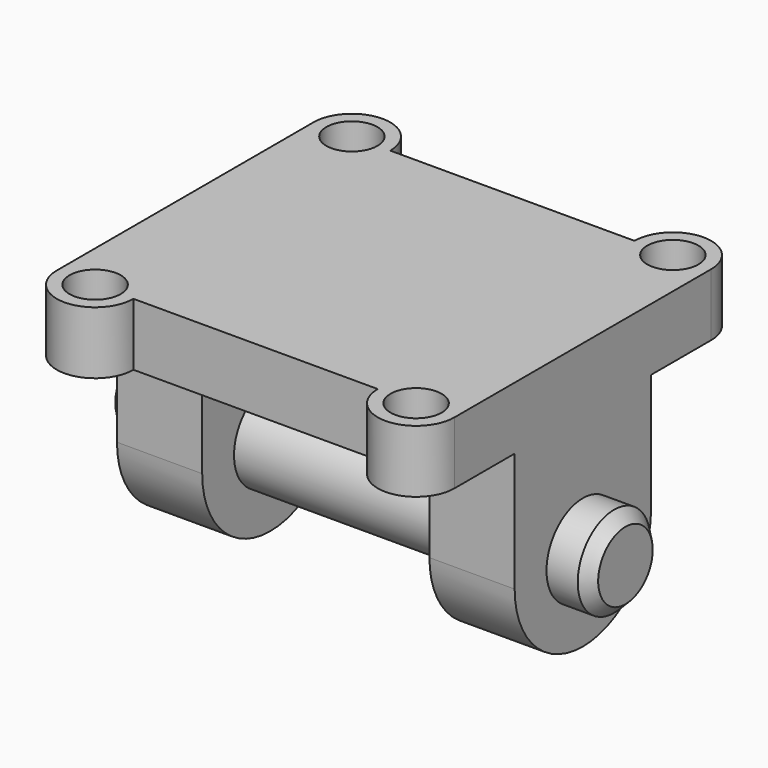
from build123d import *

# Parameters (mm, degrees)
F1_DEPTH  = 11
F2_R      = 4.5
F3_DEPTH  = 11
F5_R      = 8
F6_DEPTH  = 70
F7_W      = 40
F7_H      = 30
F8_DEPTH  = 36.001
F9_R      = 8
F10_DEPTH = 42.5
F11_SIZE  = 2


with BuildPart() as f1:
    # F0 (on Top) → F1 (new body)
    with BuildSketch(Plane.XY):
        with BuildLine():
            Line((21.5, 28.25), (-21.5, 28.25))
            ThreePointArc((-21.5, 28.25), (-28.25, 35), (-35, 28.25))
            Line((-35, 28.25), (-35, -28.25))
            ThreePointArc((-35, -28.25), (-28.25, -35), (-21.5, -28.25))
            Line((-21.5, -28.25), (21.5, -28.25))
            ThreePointArc((21.5, -28.25), (28.25, -35), (35, -28.25))
            Line((35, -28.25), (35, 28.25))
            ThreePointArc((35, 28.25), (28.25, 35), (21.5, 28.25))
        make_face()
    extrude(amount=F1_DEPTH)

    # F2 (on face) → F3 (cut, through all)
    with BuildSketch(Plane.XY.offset(11)):
        with Locations((-28.25, 28.25)):
            Circle(F2_R)
        with Locations((28.25, 28.25)):
            Circle(F2_R)
        with Locations((28.25, -28.25)):
            Circle(F2_R)
        with Locations((-28.25, -28.25)):
            Circle(F2_R)
    extrude(amount=-F3_DEPTH, mode=Mode.SUBTRACT)

    # F5 (on offset) → F6 (join, through all)
    with BuildSketch(Plane.YZ.offset(35)):
        with BuildLine():
            Line((15, -21), (15, 0))
            Line((15, 0), (-15, 0))
            Line((-15, 0), (-15, -21))
            ThreePointArc((-15, -21), (0, -36), (15, -21))
        make_face()
        with Locations((0, -21)):
            Circle(F5_R, mode=Mode.SUBTRACT)
    extrude(amount=-F6_DEPTH)

    # F7 (on face) → F8 (cut, through all)
    with BuildSketch(Plane(origin=(0, 0, 0), x_dir=(1, 0, 0), z_dir=(0, 0, -1))):
        Rectangle(F7_W, F7_H)
    extrude(amount=F8_DEPTH, mode=Mode.SUBTRACT)

    # F9 (on Right) → F10 (join, symmetric)
    with BuildSketch(Plane.YZ):
        with Locations((0, -21)):
            Circle(F9_R)
    extrude(amount=F10_DEPTH, both=True)

    # F11
    f11_edges = [f1.edges().sort_by_distance(p)[0] for p in [
        (42.5, -8, -21),
        (-42.5, -8, -21),
    ]]
    chamfer(f11_edges, length=F11_SIZE)


solid = f1.part
